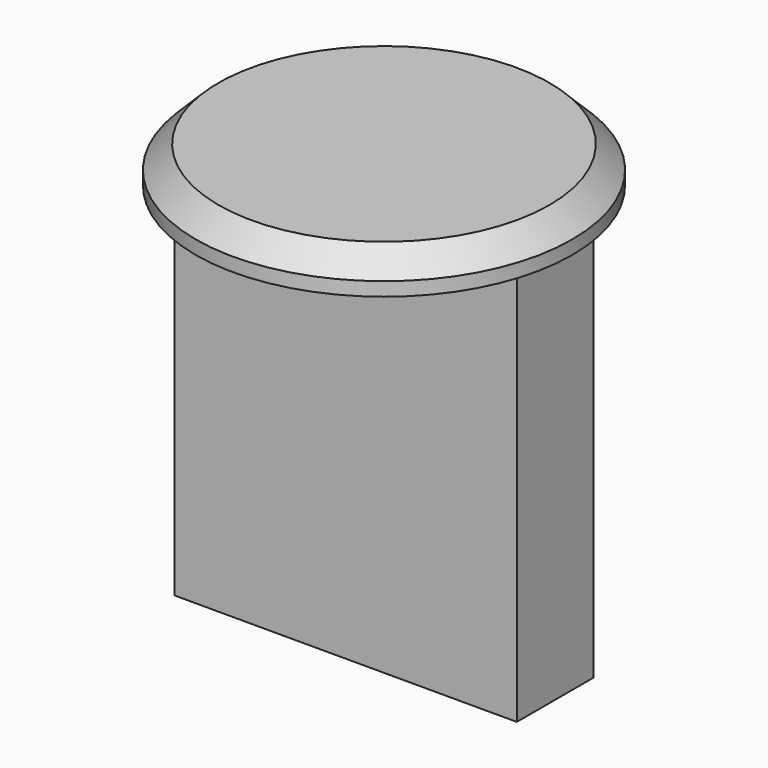
from build123d import *

# Parameters (mm, degrees)
SKETCH_R         = 8.25
EXTRUDE_DEPTH    = 1.6
CHAMFER_SIZE     = 1
SKETCH001_W      = 15
SKETCH001_H      = 4.2
EXTRUDE001_DEPTH = 17.4


with BuildPart() as chamfer_body:
    # Sketch → Extrude (new body)
    with BuildSketch(Plane.XY):
        Circle(SKETCH_R)
    extrude(amount=EXTRUDE_DEPTH)

    # Chamfer
    chamfer_edges = [chamfer_body.edges().sort_by_distance(p)[0] for p in [
        (-8.25, 0, 1.6),
    ]]
    chamfer(chamfer_edges, length=CHAMFER_SIZE)


with BuildPart() as fusion:
    # Sketch001 (on Face3 of Chamfer) → Extrude001 (new body)
    with BuildSketch(Plane(origin=(0, 0, 0), x_dir=(1, 0, 0), z_dir=(0, 0, -1))):
        Rectangle(SKETCH001_W, SKETCH001_H)
    extrude(amount=EXTRUDE001_DEPTH)

    # Fusion: union Chamfer body
    add(chamfer_body.part)


solid = fusion.part
